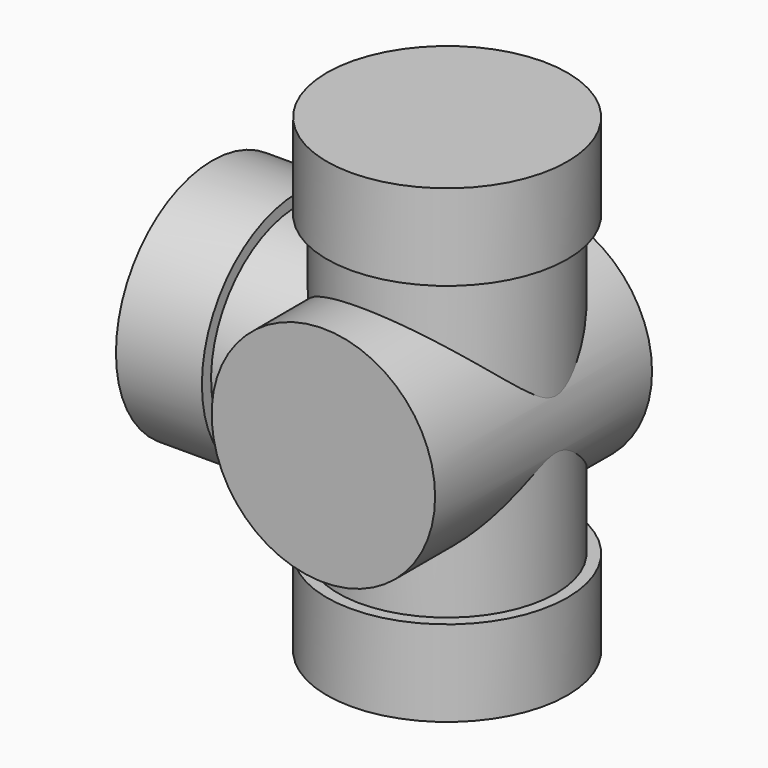
from build123d import *

# Parameters (mm, degrees)
SKETCH002_R  = 19.5
PAD_DEPTH    = 20.33
PAD001_DEPTH = 27


with BuildPart() as part:
    # Sketch → Revolution (revolve)
    with BuildSketch(Plane.XZ):
        Polygon((0, -41), (21, -41), (21, -26), (19, -26), (19, 26), (21, 26), (21, 41), (0, 41), align=None)
    revolve(axis=Axis((0, 0, 0), (0, 0, 1)))

    # Sketch001 → Revolution001 (revolve)
    with BuildSketch(Plane.XZ):
        Polygon((0, 0), (0, -19), (-26, -19), (-26, -21), (-41, -21), (-41, 0), align=None)
    revolve(axis=Axis((0, 0, 0), (1, 0, 0)))

    # Sketch002 → Pad (new body)
    with BuildSketch(Plane.XZ):
        Circle(SKETCH002_R)
    extrude(amount=-PAD_DEPTH)

    # Sketch002 → Pad001 (join)
    with BuildSketch(Plane.XZ):
        Circle(SKETCH002_R)
    extrude(amount=PAD001_DEPTH)


solid = part.part
